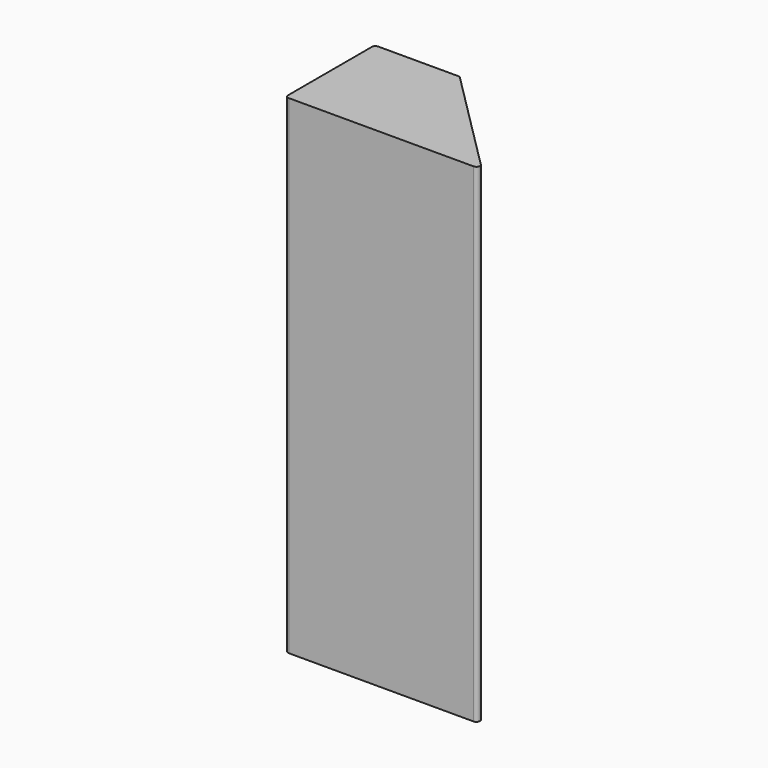
from build123d import *

# Parameters (mm, degrees)
F1_DEPTH = 150
F3_DEPTH = 140


with BuildPart() as f1:
    # F0 (on Top) → F1 (new body)
    with BuildSketch(Plane.XY):
        with BuildLine():
            Line((-35.705528, 49.347393), (-67.291312, 49.347393))
            ThreePointArc((-67.291312, 49.347393), (-68.705525, 48.761607), (-69.291312, 47.347393))
            Line((-69.291312, 47.347393), (-69.291312, 3.347397))
            ThreePointArc((-69.291312, 3.347397), (-68.705525, 1.933183), (-67.291312, 1.347397))
            Line((-67.291312, 1.347397), (9.537109, 1.347397))
            ThreePointArc((9.537109, 1.347397), (11.384868, 2.58203), (10.951323, 4.76161))
            Line((10.951323, 4.76161), (-32.169994, 47.882927))
            ThreePointArc((-32.169994, 47.882927), (-33.792111, 48.966791), (-35.705528, 49.347393))
        make_face()
        with BuildLine():
            ThreePointArc((-65.291314, 44.347395), (-64.99842, 45.054502), (-64.291314, 45.347395))
            Line((-64.291314, 45.347395), (-36.119741, 45.347395))
            ThreePointArc((-36.119741, 45.347395), (-35.354374, 45.195154), (-34.705527, 44.761609))
            Line((-34.705527, 44.761609), (3.00158, 7.054502))
            ThreePointArc((3.00158, 7.054502), (3.218352, 5.964712), (2.294473, 5.347395))
            Line((2.294473, 5.347395), (-64.291314, 5.347395))
            ThreePointArc((-64.291314, 5.347395), (-64.99842, 5.640288), (-65.291314, 6.347395))
            Line((-65.291314, 6.347395), (-65.291314, 44.347395))
        make_face(mode=Mode.SUBTRACT)
    extrude(amount=F1_DEPTH)


with BuildPart() as f3:
    # F2 (on Top) → F3 (new body)
    with BuildSketch(Plane.XY):
        with BuildLine():
            Line((-37.362381, 41.347396), (-60.291314, 41.347396))
            ThreePointArc((-60.291314, 41.347396), (-60.998421, 41.054502), (-61.291314, 40.347396))
            Line((-61.291314, 40.347396), (-61.291314, 10.347394))
            ThreePointArc((-61.291314, 10.347394), (-60.998421, 9.640288), (-60.291314, 9.347394))
            Line((-60.291314, 9.347394), (-7.36238, 9.347394))
            ThreePointArc((-7.36238, 9.347394), (-6.4385, 9.964711), (-6.655273, 11.054501))
            Line((-6.655273, 11.054501), (-36.655274, 41.054502))
            ThreePointArc((-36.655274, 41.054502), (-36.979698, 41.271275), (-37.362381, 41.347396))
        make_face()
    extrude(amount=F3_DEPTH)


solid = f3.part
